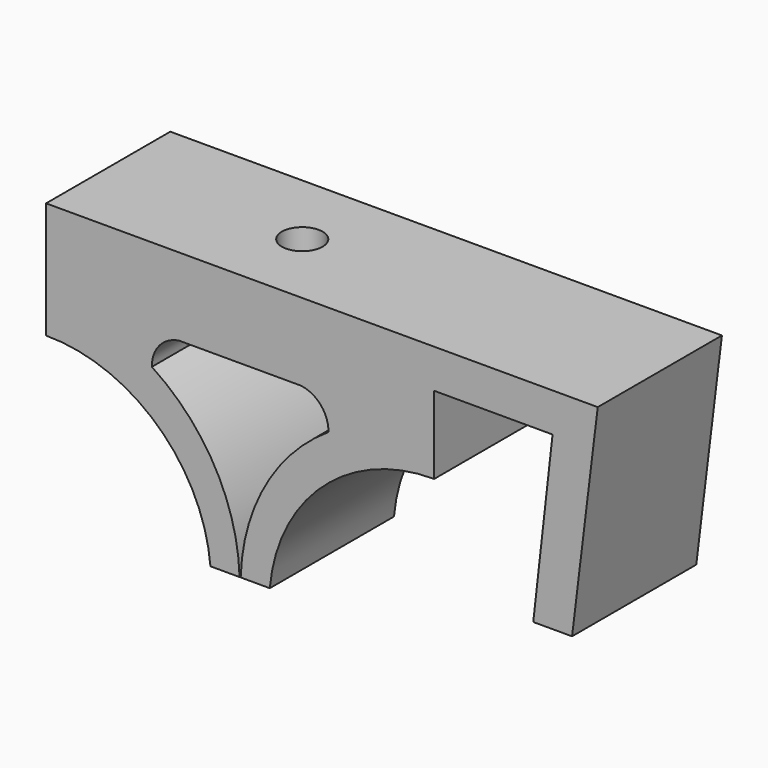
from build123d import *

# Parameters (mm, degrees)
F1_DEPTH = 4
F2_R     = 0.5
F3_DEPTH = 25
F2_R_2   = 1.05
F4_DEPTH = 10
F2_W     = 20
F2_H     = 8
F5_DEPTH = 6
F6_W     = 8
F6_H     = 2
F7_DEPTH = 6.1
F9_DEPTH = 8


with BuildPart() as f1:
    # F0 (on Front) → F1 (new body, symmetric)
    with BuildSketch(Plane.XZ):
        Polygon((-10, 5), (-10, -5), (-3.135451, -5), (3.135451, -5), (10, -5), (10, 5), align=None)
        with BuildLine():
            Line((10, -5), (3.135451, -5))
            ThreePointArc((3.135451, -5), (4.159274, -5.550715), (4.549477, -6.645814))
            ThreePointArc((4.549477, -6.645814), (1.298147, -10.123692), (0.029146, -14.712418))
            Line((0.029146, -14.712418), (1.529146, -14.712418))
            ThreePointArc((1.529146, -14.712418), (4.260677, -9.20442), (10, -7))
            Line((10, -7), (10, -5))
        make_face()
        with BuildLine():
            Line((-3.135451, -5), (-10, -5))
            Line((-10, -5), (-10, -7))
            ThreePointArc((-10, -7), (-4.260677, -9.20442), (-1.529146, -14.712418))
            Line((-1.529146, -14.712418), (-0.029146, -14.712418))
            ThreePointArc((-0.029146, -14.712418), (-1.298147, -10.123692), (-4.549477, -6.645814))
            ThreePointArc((-4.549477, -6.645814), (-4.159274, -5.550715), (-3.135451, -5))
        make_face()
    extrude(amount=F1_DEPTH, both=True)

    # F2 (on face) → F3 (cut)
    with BuildSketch(Plane.XY.offset(5)):
        Circle(F2_R)
    extrude(amount=-F3_DEPTH, mode=Mode.SUBTRACT)

    # F2 (on face) → F4 (cut)
    with BuildSketch(Plane.XY.offset(5)):
        Circle(F2_R_2)
        Circle(F2_R, mode=Mode.SUBTRACT)
    extrude(amount=-F4_DEPTH, mode=Mode.SUBTRACT)

    # F2 (on face) → F5 (cut)
    with BuildSketch(Plane.XY.offset(5)):
        Rectangle(F2_W, F2_H)
        Circle(F2_R_2, mode=Mode.SUBTRACT)
    extrude(amount=-F5_DEPTH, mode=Mode.SUBTRACT)

    # F6 (on face) → F7 (join)
    with BuildSketch(Plane.YZ.offset(10)):
        with Locations((0, -2)):
            Rectangle(F6_W, F6_H)
    extrude(amount=F7_DEPTH)

    # F8 (on face) → F9 (join)
    with BuildSketch(Plane(origin=(0, 4, 0), x_dir=(-1, 0, 0), z_dir=(0, 1, 0))):
        Polygon((-15.105671, -11.829939), (-16.1, -3), (-16.1, -1), (-18.428246, -1), (-17.105671, -11.829939), align=None)
    extrude(amount=-F9_DEPTH)


solid = f1.part
